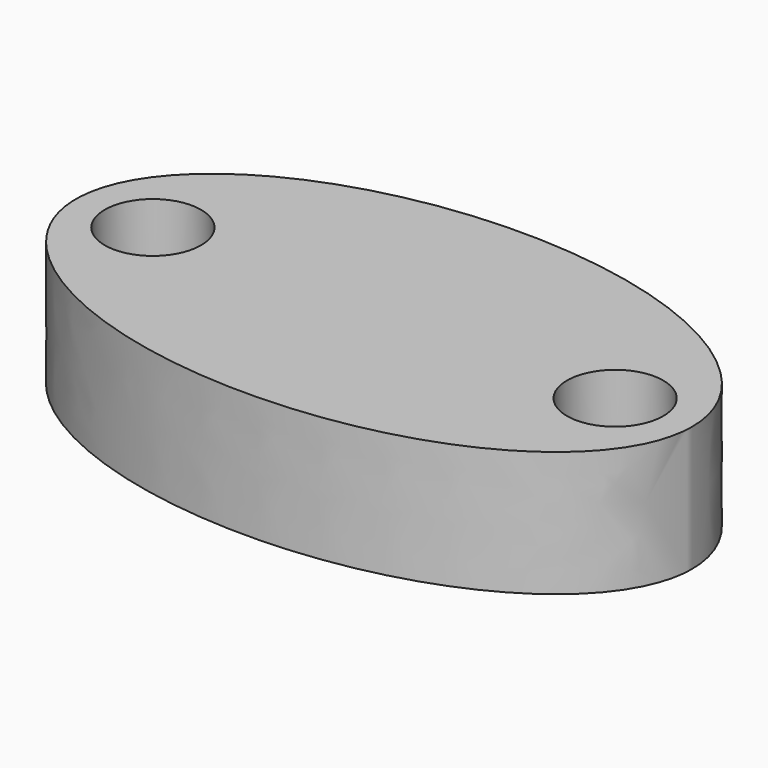
from build123d import *

# Parameters (mm, degrees)
F0_R     = 2.5
F1_DEPTH = 13
F2_R     = 5
F3_DEPTH = 6
F4_R     = 4.5
F5_DEPTH = 12


with BuildPart() as f1:
    # F0 (on Top) → F1 (new body)
    with BuildSketch(Plane.XY):
        with BuildLine():
            add(Edge.make_bspline(
                [(4.177778, 0), (4.177778, 31.176915), (-43.822222, 15.588457), (-91.822222, 0), (-43.822222, -15.588457), (4.177778, -31.176915), (4.177778, 0)],
                knots=[0, 0, 0, 2.094395, 2.094395, 4.18879, 4.18879, 6.283185, 6.283185, 6.283185], degree=2, weights=[1, 0.5, 1, 0.5, 1, 0.5, 1]))
        make_face()
        with Locations((-51.822222, 0)):
            Circle(F0_R, mode=Mode.SUBTRACT)
        with Locations((-3.822222, 0)):
            Circle(F0_R, mode=Mode.SUBTRACT)
    extrude(amount=F1_DEPTH)

    # F2 (on face) → F3 (cut)
    with BuildSketch(Plane.XY.offset(13)):
        with Locations((-51.822222, 0)):
            Circle(F2_R)
        with Locations((-3.822222, 0)):
            Circle(F2_R)
    extrude(amount=-F3_DEPTH, mode=Mode.SUBTRACT)

    # F4 (on face) → F5 (cut)
    with BuildSketch(Plane(origin=(0, 0, 0), x_dir=(1, 0, 0), z_dir=(0, 0, -1))):
        with Locations((-36.822222, 9)):
            Circle(F4_R)
        with Locations((-18.822222, 9)):
            Circle(F4_R)
        with Locations((-36.822222, -9)):
            Circle(F4_R)
        with Locations((-18.822222, -9)):
            Circle(F4_R)
        with Locations((-27.822222, 0)):
            Circle(F4_R)
    extrude(amount=-F5_DEPTH, mode=Mode.SUBTRACT)


solid = f1.part
